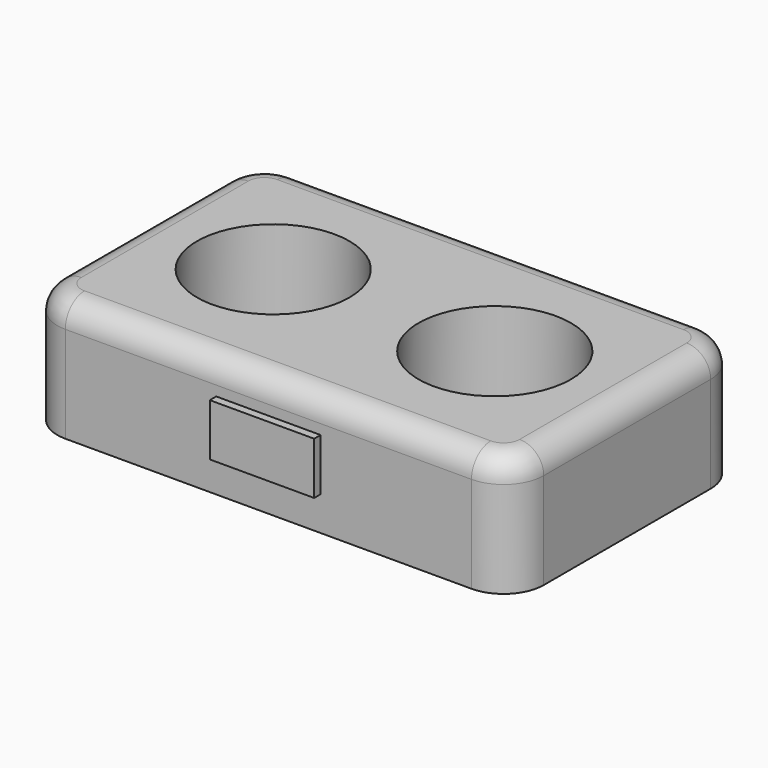
from build123d import *

# Parameters (mm, degrees)
F0_R     = 9.5
F1_DEPTH = 15
F2_DEPTH = 1
F3_W     = 6.5
F3_H     = 6.5
F4_DEPTH = 8.4
F5_R     = 3
F6_DEPTH = 0.8
F7_DEPTH = 1
F8_DEPTH = 4.6


with BuildPart() as f1:
    # F0 (on Top) → F1 (new body)
    with BuildSketch(Plane.XY):
        with BuildLine():
            Line((25.3, 18), (-25.3, 18))
            ThreePointArc((-25.3, 18), (-28.8355339059, 16.5355339059), (-30.3, 13))
            Line((-30.3, 13), (-30.3, -13))
            ThreePointArc((-30.3, -13), (-28.8355339059, -16.5355339059), (-25.3, -18))
            Line((-25.3, -18), (25.3, -18))
            ThreePointArc((25.3, -18), (28.8355339059, -16.5355339059), (30.3, -13))
            Line((30.3, -13), (30.3, 13))
            ThreePointArc((30.3, 13), (28.8355339059, 16.5355339059), (25.3, 18))
        make_face()
        with BuildLine():
            ThreePointArc((-28.3, 11), (-26.8355339059, 14.5355339059), (-23.3, 16))
            Line((-23.3, 16), (23.3, 16))
            ThreePointArc((23.3, 16), (26.8355339059, 14.5355339059), (28.3, 11))
            Line((28.3, 11), (28.3, -11))
            ThreePointArc((28.3, -11), (26.8355339059, -14.5355339059), (23.3, -16))
            Line((23.3, -16), (-23.3, -16))
            ThreePointArc((-23.3, -16), (-26.8355339059, -14.5355339059), (-28.3, -11))
            Line((-28.3, -11), (-28.3, 11))
        make_face(mode=Mode.SUBTRACT)
        with BuildLine():
            Line((23.3, 16), (-23.3, 16))
            ThreePointArc((-23.3, 16), (-26.8355339059, 14.5355339059), (-28.3, 11))
            Line((-28.3, 11), (-28.3, -11))
            ThreePointArc((-28.3, -11), (-26.8355339059, -14.5355339059), (-23.3, -16))
            Line((-23.3, -16), (23.3, -16))
            ThreePointArc((23.3, -16), (26.8355339059, -14.5355339059), (28.3, -11))
            Line((28.3, -11), (28.3, 11))
            ThreePointArc((28.3, 11), (26.8355339059, 14.5355339059), (23.3, 16))
        make_face()
        with Locations((-13.8, 0)):
            Circle(F0_R, mode=Mode.SUBTRACT)
        with Locations((13.8, 0)):
            Circle(F0_R, mode=Mode.SUBTRACT)
    extrude(amount=F1_DEPTH)

    # F0 (on Top) → F2 (join)
    with BuildSketch(Plane.XY):
        with Locations((-13.8, 0)):
            Circle(F0_R)
        with Locations((13.8, 0)):
            Circle(F0_R)
    extrude(amount=F2_DEPTH)

    # F3 (on face) → F4 (cut)
    with BuildSketch(Plane.XZ.offset(18)):
        with Locations((-3.25, 7.5)):
            Rectangle(F3_W, F3_H)
        with Locations((3.25, 7.5)):
            Rectangle(F3_W, F3_H)
    extrude(amount=-F4_DEPTH, mode=Mode.SUBTRACT)

    # F5
    f5_edges = [f1.edges().sort_by_distance(p)[0] for p in [
        (0, -18, 15),
    ]]
    fillet(f5_edges, radius=F5_R)


with BuildPart() as f6:
    # F0 (on Top) → F6 (new body)
    with BuildSketch(Plane.XY):
        with Locations((-13.8, 0)):
            Circle(F0_R)
    extrude(amount=F6_DEPTH)


with BuildPart() as f7:
    # F3 (on face) → F7 (new body)
    with BuildSketch(Plane.XZ.offset(18)):
        with Locations((3.25, 7.5)):
            Rectangle(F3_W, F3_H)
        with Locations((-3.25, 7.5)):
            Rectangle(F3_W, F3_H)
    extrude(amount=F7_DEPTH)


with BuildPart() as f8:
    # F0 (on Top) → F8 (new body)
    with BuildSketch(Plane.XY):
        with Locations((-13.8, 0)):
            Circle(F0_R)
    extrude(amount=F8_DEPTH)


solid = Compound([f1.part, f6.part, f7.part, f8.part])
